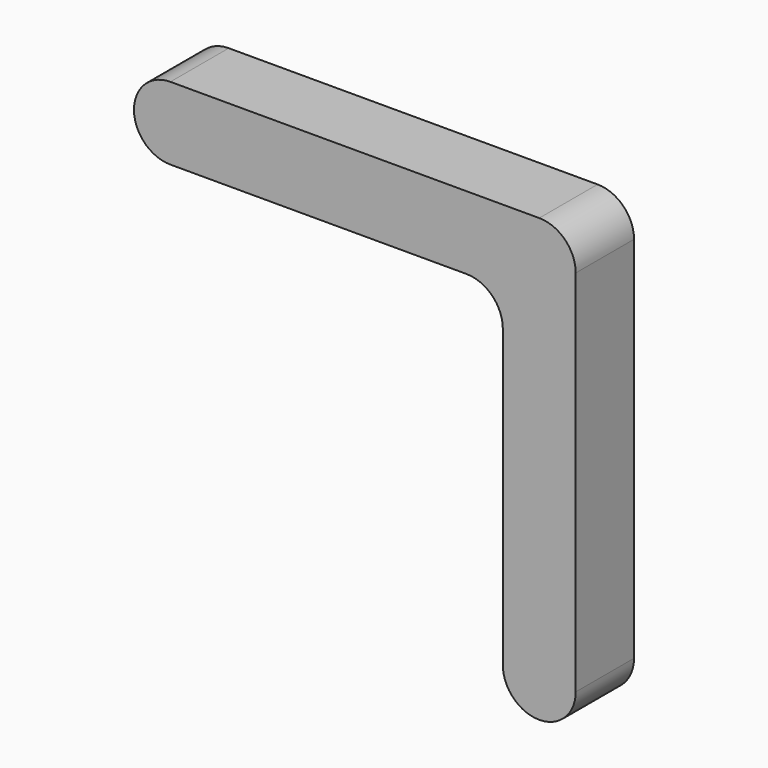
from build123d import *

# Parameters (mm, degrees)
F1_DEPTH = 16.5


with BuildPart() as f1:
    # F0 (on Front) → F1 (new body, symmetric)
    with BuildSketch(Plane.XZ):
        with BuildLine():
            Line((167, 16.5), (0, 16.5))
            ThreePointArc((0, 16.5), (-16.5, 0), (0, -16.5))
            Line((0, -16.5), (134, -16.5))
            ThreePointArc((134, -16.5), (145.667262, -21.332738), (150.5, -33))
            Line((150.5, -33), (150.5, -167))
            ThreePointArc((150.5, -167), (167, -183.5), (183.5, -167))
            Line((183.5, -167), (183.5, 0))
            ThreePointArc((183.5, 0), (178.667262, 11.667262), (167, 16.5))
        make_face()
    extrude(amount=F1_DEPTH, both=True)


solid = f1.part
